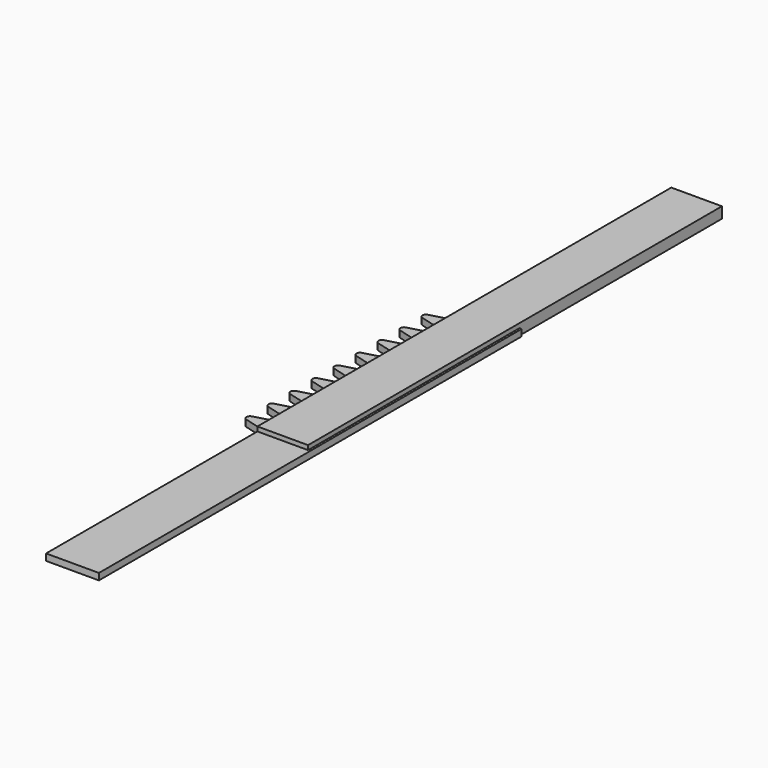
from build123d import *

# Parameters (mm, degrees)
F1_DEPTH = 0.3
F2_W     = 2.3
F2_H     = 23.5
F3_DEPTH = 0.5


with BuildPart() as f1:
    # F0 (on Top) → F1 (new body)
    with BuildSketch(Plane.XY):
        with BuildLine():
            Line((0, 10), (0, 11.25))
            ThreePointArc((0, 11.25), (-0.061469, 11.068057), (-0.220688, 10.960674))
            Line((-0.220688, 10.960674), (-0.8823, 10.779307))
            ThreePointArc((-0.8823, 10.779307), (-1, 10.625), (-0.8823, 10.470693))
            Line((-0.8823, 10.470693), (-0.220688, 10.289326))
            ThreePointArc((-0.220688, 10.289326), (-0.061469, 10.181943), (0, 10))
        make_face()
        with BuildLine():
            Line((0, 8.75), (0, 10))
            ThreePointArc((0, 10), (-0.061469, 9.818057), (-0.220688, 9.710674))
            Line((-0.220688, 9.710674), (-0.8823, 9.529307))
            ThreePointArc((-0.8823, 9.529307), (-1, 9.375), (-0.8823, 9.220693))
            Line((-0.8823, 9.220693), (-0.220688, 9.039326))
            ThreePointArc((-0.220688, 9.039326), (-0.061469, 8.931943), (0, 8.75))
        make_face()
        with BuildLine():
            Line((0, 7.5), (0, 8.75))
            ThreePointArc((0, 8.75), (-0.061469, 8.568057), (-0.220688, 8.460674))
            Line((-0.220688, 8.460674), (-0.8823, 8.279307))
            ThreePointArc((-0.8823, 8.279307), (-1, 8.125), (-0.8823, 7.970693))
            Line((-0.8823, 7.970693), (-0.220688, 7.789326))
            ThreePointArc((-0.220688, 7.789326), (-0.061469, 7.681943), (0, 7.5))
        make_face()
        with BuildLine():
            Line((0, 6.25), (0, 7.5))
            ThreePointArc((0, 7.5), (-0.061469, 7.318057), (-0.220688, 7.210674))
            Line((-0.220688, 7.210674), (-0.8823, 7.029307))
            ThreePointArc((-0.8823, 7.029307), (-1, 6.875), (-0.8823, 6.720693))
            Line((-0.8823, 6.720693), (-0.220688, 6.539326))
            ThreePointArc((-0.220688, 6.539326), (-0.061469, 6.431943), (0, 6.25))
        make_face()
        with BuildLine():
            Line((0, 5), (0, 6.25))
            ThreePointArc((0, 6.25), (-0.061469, 6.068057), (-0.220688, 5.960674))
            Line((-0.220688, 5.960674), (-0.8823, 5.779307))
            ThreePointArc((-0.8823, 5.779307), (-1, 5.625), (-0.8823, 5.470693))
            Line((-0.8823, 5.470693), (-0.220688, 5.289326))
            ThreePointArc((-0.220688, 5.289326), (-0.061469, 5.181943), (0, 5))
        make_face()
        with BuildLine():
            Line((0, 3.75), (0, 5))
            ThreePointArc((0, 5), (-0.061469, 4.818057), (-0.220688, 4.710674))
            Line((-0.220688, 4.710674), (-0.8823, 4.529307))
            ThreePointArc((-0.8823, 4.529307), (-1, 4.375), (-0.8823, 4.220693))
            Line((-0.8823, 4.220693), (-0.220688, 4.039326))
            ThreePointArc((-0.220688, 4.039326), (-0.061469, 3.931943), (0, 3.75))
        make_face()
        with BuildLine():
            ThreePointArc((-0.220688, 2.789326), (-0.061469, 2.681943), (0, 2.5))
            Line((0, 2.5), (0, 3.75))
            ThreePointArc((0, 3.75), (-0.061469, 3.568057), (-0.220688, 3.460674))
            Line((-0.220688, 3.460674), (-0.8823, 3.279307))
            ThreePointArc((-0.8823, 3.279307), (-1, 3.125), (-0.8823, 2.970693))
            Line((-0.8823, 2.970693), (-0.220688, 2.789326))
        make_face()
        with BuildLine():
            ThreePointArc((-0.220688, 1.539326), (-0.061469, 1.431943), (0, 1.25))
            Line((0, 1.25), (0, 2.5))
            ThreePointArc((0, 2.5), (-0.061469, 2.318057), (-0.220688, 2.210674))
            Line((-0.220688, 2.210674), (-0.8823, 2.029307))
            ThreePointArc((-0.8823, 2.029307), (-1, 1.875), (-0.8823, 1.720693))
            Line((-0.8823, 1.720693), (-0.220688, 1.539326))
        make_face()
        with BuildLine():
            ThreePointArc((-0.220688, 0.289326), (-0.061469, 0.181943), (0, 0))
            Line((0, 0), (0, 1.25))
            ThreePointArc((0, 1.25), (-0.061469, 1.068057), (-0.220688, 0.960674))
            Line((-0.220688, 0.960674), (-0.8823, 0.779307))
            ThreePointArc((-0.8823, 0.779307), (-1, 0.625), (-0.8823, 0.470693))
            Line((-0.8823, 0.470693), (-0.220688, 0.289326))
        make_face()
        Polygon((2.4, 12), (0, 12), (0, 11.25), (0, 10), (0, 8.75), (0, 7.5), (0, 6.25), (0, 5), (0, 3.75), (0, 2.5), (0, 1.25), (0, 0), (0, -12), (2.4, -12), align=None)
    extrude(amount=F1_DEPTH)


with BuildPart() as f3:
    # F2 (on Top) → F3 (new body)
    with BuildSketch(Plane.XY):
        with Locations((1.15, 11.75)):
            Rectangle(F2_W, F2_H)
    extrude(amount=F3_DEPTH)


solid = Compound([f1.part, f3.part])
